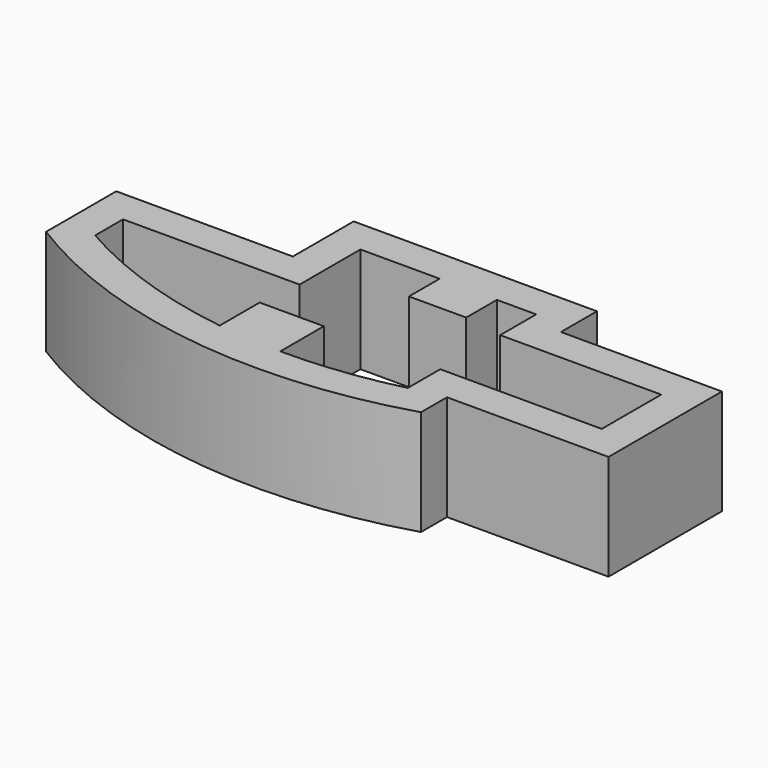
from build123d import *

# Parameters (mm, degrees)
F1_DEPTH = 25


with BuildPart() as f1:
    # F0 (on Top) → F1 (new body)
    with BuildSketch(Plane.XY):
        with BuildLine():
            Line((40.610778, 25.609195), (40.610778, 36.268909))
            Line((40.610778, 36.268909), (-17.05901, 36.268909))
            Line((-17.05901, 36.268909), (-17.05901, 18.244302))
            Line((-17.05901, 18.244302), (-58.922609, 18.244302))
            Line((-58.922609, 18.244302), (-58.922609, -2.555357))
            ThreePointArc((-58.922609, -2.555357), (-10.638635, -19.854144), (40.48249, -15.704351))
            Line((40.48249, -15.704351), (40.48249, -8))
            Line((40.48249, -8), (78.777394, -8))
            Line((78.777394, -8), (78.777394, 25.609195))
            Line((78.777394, 25.609195), (40.610778, 25.609195))
        make_face()
        with BuildLine():
            ThreePointArc((-10.33418, -11.822224), (-31.285963, -6.848785), (-50.922609, 1.989454))
            Line((-50.922609, 1.989454), (-50.922609, 10.244302))
            Line((-50.922609, 10.244302), (-9.05901, 10.244302))
            Line((-9.05901, 10.244302), (-9.05901, 28.268909))
            Line((-9.05901, 28.268909), (9.726312, 28.268909))
            Line((9.726312, 28.268909), (9.726312, 19.174233))
            Line((9.726312, 19.174233), (23.293221, 19.174233))
            Line((23.293221, 19.174233), (23.293221, 28.268909))
            Line((23.293221, 28.268909), (32.610778, 28.268909))
            Line((32.610778, 28.268909), (32.610778, 17.609195))
            Line((32.610778, 17.609195), (70.777394, 17.609195))
            Line((70.777394, 17.609195), (70.777394, 0))
            Line((70.777394, 0), (32.48249, 0))
            Line((32.48249, 0), (32.48249, -9.605035))
            ThreePointArc((32.48249, -9.605035), (18.783018, -12.10171), (4.88099, -12.903308))
            Line((4.88099, -12.903308), (4.88099, 0))
            Line((4.88099, 0), (-10.33418, 0))
            Line((-10.33418, 0), (-10.33418, -11.822224))
        make_face(mode=Mode.SUBTRACT)
    extrude(amount=F1_DEPTH)


solid = f1.part
